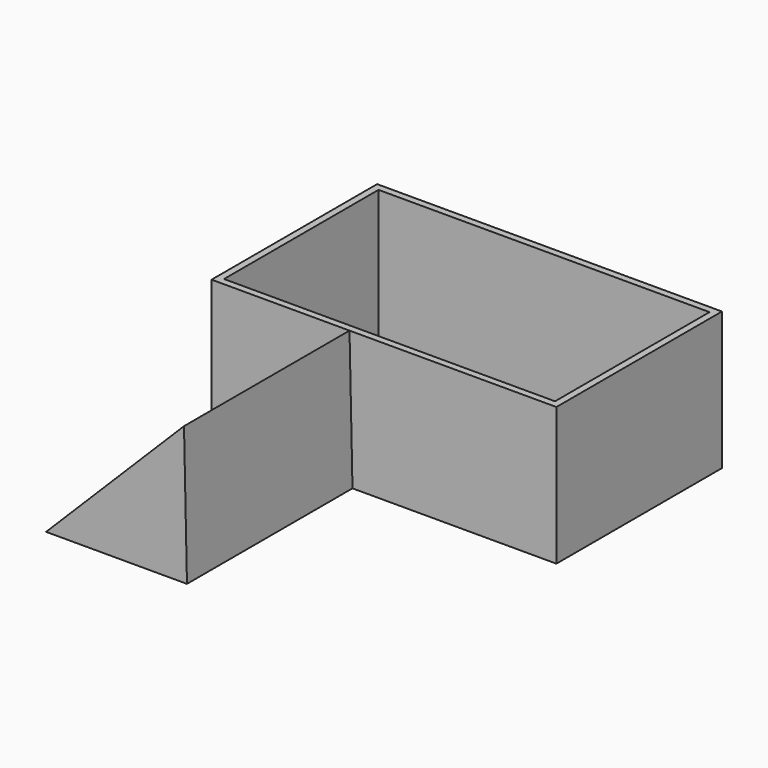
from build123d import *

# Parameters (mm, degrees)
F0_W     = 127
F0_H     = 76.2
F1_DEPTH = 50.8
F2_T     = -2.54
F4_DEPTH = 76.2


with BuildPart() as f1:
    # F0 (on Top) → F1 (new body)
    with BuildSketch(Plane.XY):
        with Locations((63.5, 38.1)):
            Rectangle(F0_W, F0_H)
    extrude(amount=F1_DEPTH)

    # F2
    f2_openings = [f1.faces().sort_by_distance(p)[0] for p in [
        (63.5, 38.1, 50.8),
    ]]
    offset(amount=F2_T, openings=f2_openings)

    # F3 (on face) → F4 (join)
    with BuildSketch(Plane.XZ):
        Polygon((50.8, 50.8), (0, 0), (51.892955, 0), align=None)
    extrude(amount=F4_DEPTH)


solid = f1.part
